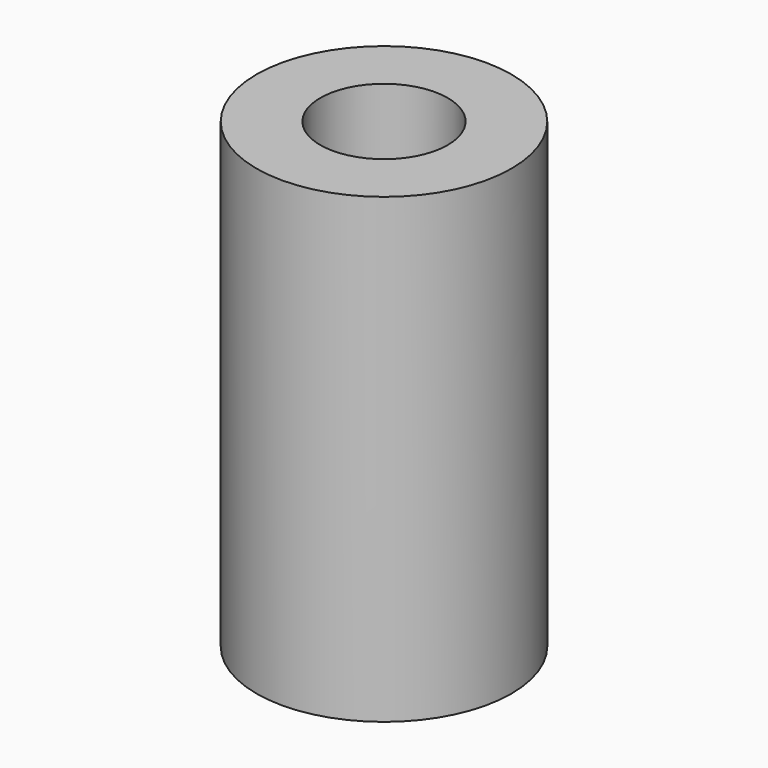
from build123d import *

# Parameters (mm, degrees)
CYLINDER_R        = 2
CYLINDER_DEPTH    = 14.5
CYLINDER001_R     = 4
CYLINDER001_DEPTH = 14.5


with BuildPart() as cylinder:
    # Cylinder → Cylinder (new body)
    with BuildSketch(Plane.XY):
        Circle(CYLINDER_R)
    extrude(amount=CYLINDER_DEPTH)


with BuildPart() as spacer1:
    # Cylinder001 → Cylinder001 (new body)
    with BuildSketch(Plane.XY):
        Circle(CYLINDER001_R)
    extrude(amount=CYLINDER001_DEPTH)

    # Cut: cut Cylinder
    add(cylinder.part, mode=Mode.SUBTRACT)


with BuildPart() as spacer1_1:
    # Cut placement: moved
    add(spacer1.part.moved(Location((-57, 71, 49))))


solid = spacer1_1.part
